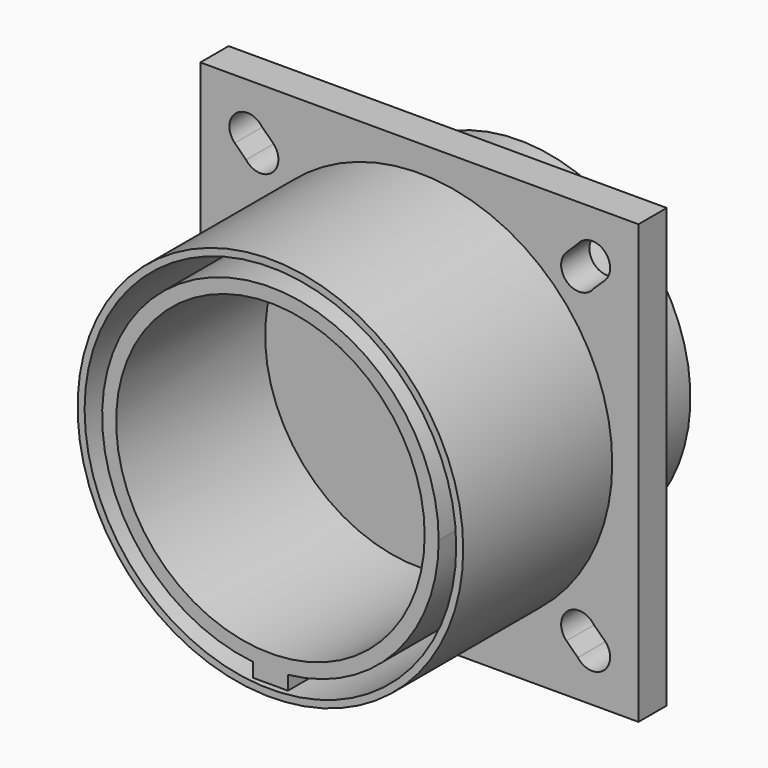
from build123d import *

# Parameters (mm, degrees)
F0_W     = 39.6748
F0_H     = 39.6748
F0_R     = 17.4625
F0_R_2   = 16.8275
F1_DEPTH = 3.2004
F2_DEPTH = 20.066
F3_R     = 13.97
F4_DEPTH = 16.8656
F5_R     = 15.5
F6_DEPTH = 8.1026


with BuildPart() as f1:
    # F0 (on Front) → F1 (new body)
    with BuildSketch(Plane.XZ):
        Rectangle(F0_W, F0_H)
        with BuildLine():
            Line((-13.265674, -15.564284), (-14.252556, -16.518023))
            ThreePointArc((-14.252556, -16.518023), (-16.635155, -16.817997), (-16.716767, -14.417977))
            Line((-16.716767, -14.417977), (-15.697317, -13.421976))
            ThreePointArc((-15.697317, -13.421976), (-13.320738, -13.175603), (-13.265674, -15.564284))
        make_face(mode=Mode.SUBTRACT)
        with BuildLine():
            ThreePointArc((13.323525, -15.493634), (13.405137, -13.093613), (15.787736, -13.393587))
            Line((15.787736, -13.393587), (16.774618, -14.347326))
            ThreePointArc((16.774618, -14.347326), (16.719554, -16.736007), (14.342975, -16.489634))
            Line((14.342975, -16.489634), (13.323525, -15.493634))
        make_face(mode=Mode.SUBTRACT)
        with BuildLine():
            ThreePointArc((-16.716767, 14.417977), (-16.635155, 16.817997), (-14.252556, 16.518023))
            Line((-14.252556, 16.518023), (-13.265674, 15.564284))
            ThreePointArc((-13.265674, 15.564284), (-13.320738, 13.175603), (-15.697317, 13.421976))
            Line((-15.697317, 13.421976), (-16.716767, 14.417977))
        make_face(mode=Mode.SUBTRACT)
        Circle(F0_R, mode=Mode.SUBTRACT)
        with BuildLine():
            Line((16.774618, 14.347326), (15.787736, 13.393587))
            ThreePointArc((15.787736, 13.393587), (13.405137, 13.093613), (13.323525, 15.493634))
            Line((13.323525, 15.493634), (14.342975, 16.489634))
            ThreePointArc((14.342975, 16.489634), (16.719554, 16.736007), (16.774618, 14.347326))
        make_face(mode=Mode.SUBTRACT)
        Circle(F0_R)
        Circle(F0_R_2, mode=Mode.SUBTRACT)
        Circle(F0_R_2)
    extrude(amount=F1_DEPTH)

    # F0 (on Front) → F2 (join)
    with BuildSketch(Plane.XZ):
        Circle(F0_R)
        Circle(F0_R_2, mode=Mode.SUBTRACT)
    extrude(amount=F2_DEPTH)

    # F3 (on face) → F4 (join)
    with BuildSketch(Plane.XZ.offset(3.2004)):
        with BuildLine():
            ThreePointArc((1.5875, -15.157092), (11.323672, -10.19961), (15.24, 0))
            ThreePointArc((15.24, 0), (-10.19961, 11.323672), (-1.5875, -15.157092))
            Line((-1.5875, -15.157092), (1.5875, -15.157092))
        make_face()
        Circle(F3_R, mode=Mode.SUBTRACT)
        with BuildLine():
            ThreePointArc((1.5875, -15.157092), (0, -15.24), (-1.5875, -15.157092))
            Line((-1.5875, -15.157092), (-1.5875, -16.427092))
            Line((-1.5875, -16.427092), (1.5875, -16.427092))
            Line((1.5875, -16.427092), (1.5875, -15.157092))
        make_face()
        with BuildLine():
            Line((1.5875, -15.157092), (-1.5875, -15.157092))
            ThreePointArc((-1.5875, -15.157092), (0, -15.24), (1.5875, -15.157092))
        make_face()
    extrude(amount=F4_DEPTH)

    # F5 (on face) → F6 (join)
    with BuildSketch(Plane(origin=(0, 0, 0), x_dir=(-1, 0, 0), z_dir=(0, 1, 0))):
        Circle(F5_R)
    extrude(amount=F6_DEPTH)


solid = f1.part
